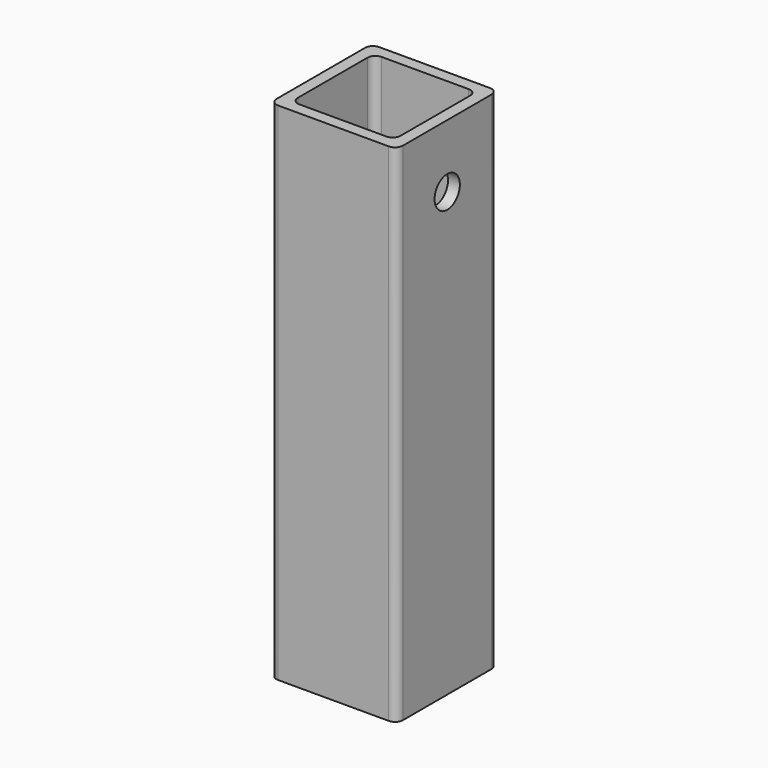
from build123d import *

# Parameters (mm, degrees)
F1_DEPTH = 203.2
F2_R     = 6.35
F3_DEPTH = 50.801


with BuildPart() as f1:
    # F0 (on Top) → F1 (new body)
    with BuildSketch(Plane.XY):
        with BuildLine():
            ThreePointArc((25.4, 22.225), (24.470064, 24.470064), (22.225, 25.4))
            Line((22.225, 25.4), (-22.225, 25.4))
            ThreePointArc((-22.225, 25.4), (-24.470064, 24.470064), (-25.4, 22.225))
            Line((-25.4, 22.225), (-25.4, -22.225))
            ThreePointArc((-25.4, -22.225), (-24.470064, -24.470064), (-22.225, -25.4))
            Line((-22.225, -25.4), (22.225, -25.4))
            ThreePointArc((22.225, -25.4), (24.470064, -24.470064), (25.4, -22.225))
            Line((25.4, -22.225), (25.4, 22.225))
        make_face()
        with BuildLine():
            Line((-17.4625, 20.6375), (17.4625, 20.6375))
            ThreePointArc((17.4625, 20.6375), (19.707564, 19.707564), (20.6375, 17.4625))
            Line((20.6375, 17.4625), (20.6375, -17.4625))
            ThreePointArc((20.6375, -17.4625), (19.707564, -19.707564), (17.4625, -20.6375))
            Line((17.4625, -20.6375), (-17.4625, -20.6375))
            ThreePointArc((-17.4625, -20.6375), (-19.707564, -19.707564), (-20.6375, -17.4625))
            Line((-20.6375, -17.4625), (-20.6375, 17.4625))
            ThreePointArc((-20.6375, 17.4625), (-19.707564, 19.707564), (-17.4625, 20.6375))
        make_face(mode=Mode.SUBTRACT)
    extrude(amount=F1_DEPTH)

    # F2 (on face) → F3 (cut, through all)
    with BuildSketch(Plane(origin=(-25.4, 0, 0), x_dir=(0, -1, 0), z_dir=(-1, 0, 0))):
        with Locations((0, 177.8)):
            Circle(F2_R)
    extrude(amount=-F3_DEPTH, mode=Mode.SUBTRACT)


solid = f1.part
